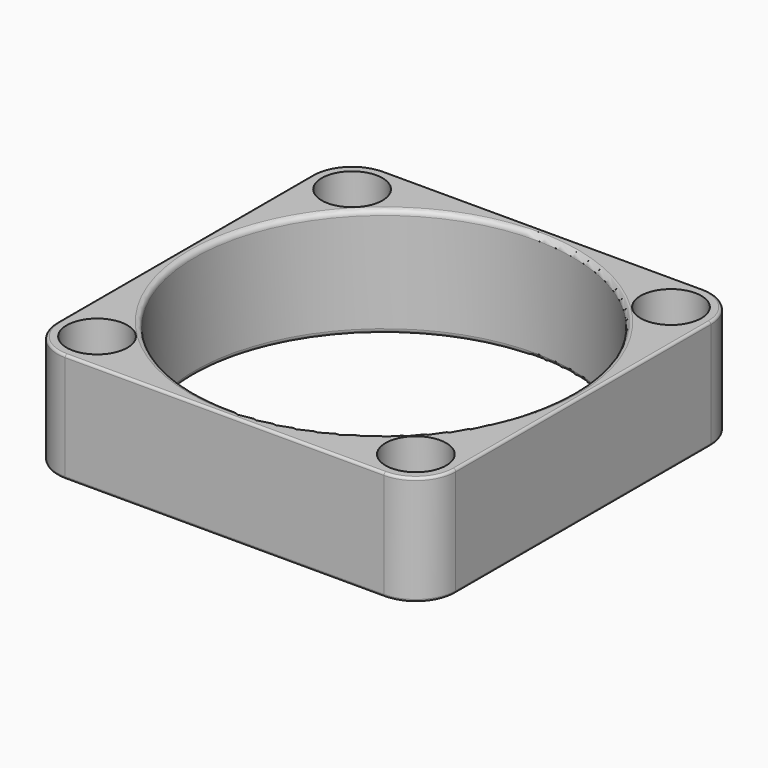
from build123d import *

# Parameters (mm, degrees)
SKETCH067_W         = 40
SKETCH067_H         = 40
PAD025_DEPTH        = 11
SKETCH066_R         = 19
POCKET025_DEPTH     = 11.001
HOLE006_D           = 3.9
HOLE006_DEPTH       = 25
HOLE006_CBORE_D     = 6.1
HOLE006_CBORE_DEPTH = 3.9
FILLET043_R         = 4
FILLET036_R         = 0.5
FILLET041_R         = 0.25


with BuildPart() as part:
    # Sketch067 → Pad025 (new body)
    with BuildSketch(Plane.XY):
        Rectangle(SKETCH067_W, SKETCH067_H)
    extrude(amount=PAD025_DEPTH)

    # Sketch066 (on Face6 of Pad025) → Pocket025 (cut, through all)
    with BuildSketch(Plane.XY.offset(11)):
        Circle(SKETCH066_R)
    extrude(amount=-POCKET025_DEPTH, mode=Mode.SUBTRACT)

    # Hole006
    with Locations(Plane.XY.offset(11)):
        with Locations((16, 16), (16, -16), (-16, 16), (-16, -16)):
            CounterBoreHole(HOLE006_D / 2, HOLE006_CBORE_D / 2, HOLE006_CBORE_DEPTH, depth=HOLE006_DEPTH)

    # Fillet043
    fillet043_edges = [part.edges().sort_by_distance(p)[0] for p in [
        (20, 20, 5.5),
        (-20, 20, 5.5),
        (-20, -20, 5.5),
        (20, -20, 5.5),
    ]]
    fillet(fillet043_edges, radius=FILLET043_R)

    # Fillet036
    fillet036_edges = [part.edges().sort_by_distance(p)[0] for p in [
        (-19, 0, 11),
        (19, 0, 5.5),
        (-19, 0, 0),
    ]]
    fillet(fillet036_edges, radius=FILLET036_R)

    # Fillet041
    fillet041_edges = [part.edges().sort_by_distance(p)[0] for p in [
        (0, -20, 0),
        (16, -20, 5.5),
        (-16, -20, 5.5),
        (0, -20, 11),
        (20, 0, 0),
        (20, 16, 5.5),
        (20, -16, 5.5),
        (20, 0, 11),
        (0, 20, 0),
        (-16, 20, 5.5),
        (16, 20, 5.5),
        (0, 20, 11),
        (-20, 0, 0),
        (-20, -16, 5.5),
        (-20, 16, 5.5),
        (-20, 0, 11),
    ]]
    fillet(fillet041_edges, radius=FILLET041_R)


solid = part.part
